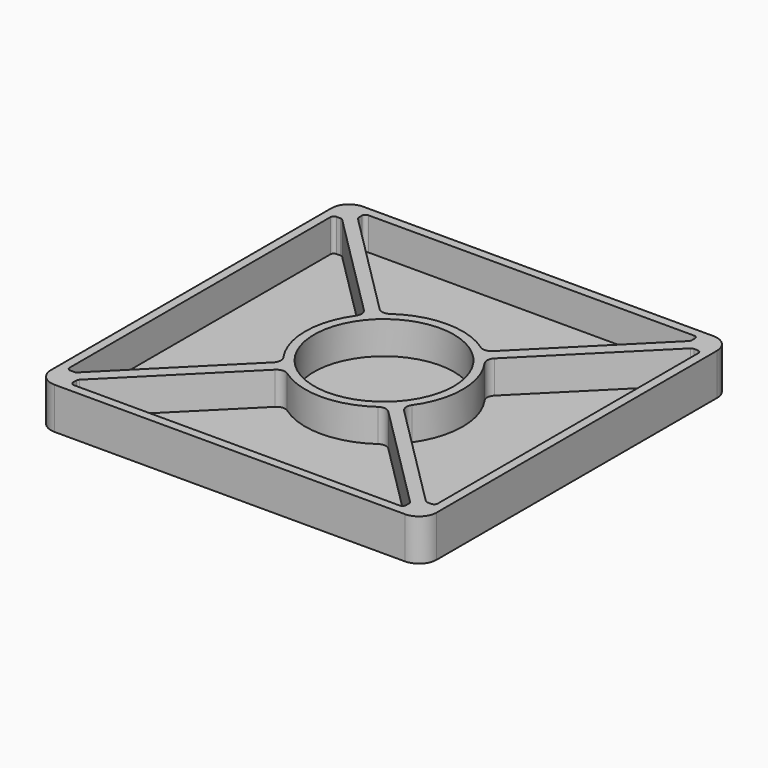
from build123d import *

# Parameters (mm, degrees)
F0_R     = 39.5
F1_DEPTH = 5
F2_DEPTH = 18.5


with BuildPart() as f1:
    # F0 (on Top) → F1 (new body)
    with BuildSketch(Plane.XY):
        with BuildLine():
            Line((99, 109), (-99, 109))
            ThreePointArc((-99, 109), (-106.071068, 106.071068), (-109, 99))
            Line((-109, 99), (-109, -99))
            ThreePointArc((-109, -99), (-106.071068, -106.071068), (-99, -109))
            Line((-99, -109), (99, -109))
            ThreePointArc((99, -109), (106.071068, -106.071068), (109, -99))
            Line((109, -99), (109, 99))
            ThreePointArc((109, 99), (106.071068, 106.071068), (99, 109))
        make_face()
        with BuildLine():
            Line((-60.861436, -104.000004), (-92.050256, -104.000004))
            ThreePointArc((-92.050256, -104.000004), (-93.46447, -103.414217), (-94.050256, -102.000004))
            Line((-94.050256, -102.000004), (-94.050256, -99.828431))
            ThreePointArc((-94.050256, -99.828431), (-93.898015, -99.063064), (-93.46447, -98.414217))
            Line((-93.46447, -98.414217), (-32.007006, -36.956753))
            ThreePointArc((-32.007006, -36.956753), (-28.902368, -35.510889), (-25.595565, -36.402157))
            ThreePointArc((-25.595565, -36.402157), (0, -44.5), (25.595565, -36.402157))
            ThreePointArc((25.595565, -36.402157), (28.902368, -35.510889), (32.007006, -36.956753))
            Line((32.007006, -36.956753), (93.46447, -98.414217))
            ThreePointArc((93.46447, -98.414217), (93.898015, -99.063064), (94.050256, -99.828431))
            Line((94.050256, -99.828431), (94.050256, -102.000004))
            ThreePointArc((94.050256, -102.000004), (93.46447, -103.414217), (92.050256, -104.000004))
            Line((92.050256, -104.000004), (60.861436, -104.000004))
            Line((60.861436, -104.000004), (45.861436, -104.000004))
            Line((45.861436, -104.000004), (-45.861436, -104.000004))
            Line((-45.861436, -104.000004), (-60.861436, -104.000004))
        make_face(mode=Mode.SUBTRACT)
        with BuildLine():
            Line((-104.000004, 60.861436), (-104.000004, 92.050256))
            ThreePointArc((-104.000004, 92.050256), (-103.414217, 93.46447), (-102.000004, 94.050256))
            Line((-102.000004, 94.050256), (-99.828431, 94.050256))
            ThreePointArc((-99.828431, 94.050256), (-99.063064, 93.898015), (-98.414217, 93.46447))
            Line((-98.414217, 93.46447), (-36.956753, 32.007006))
            ThreePointArc((-36.956753, 32.007006), (-35.510889, 28.902368), (-36.402157, 25.595565))
            ThreePointArc((-36.402157, 25.595565), (-44.5, 0), (-36.402157, -25.595565))
            ThreePointArc((-36.402157, -25.595565), (-35.510889, -28.902368), (-36.956753, -32.007006))
            Line((-36.956753, -32.007006), (-98.414217, -93.46447))
            ThreePointArc((-98.414217, -93.46447), (-99.063064, -93.898015), (-99.828431, -94.050256))
            Line((-99.828431, -94.050256), (-102.000004, -94.050256))
            ThreePointArc((-102.000004, -94.050256), (-103.414217, -93.46447), (-104.000004, -92.050256))
            Line((-104.000004, -92.050256), (-104.000004, -60.861436))
            Line((-104.000004, -60.861436), (-104.000004, -45.861436))
            Line((-104.000004, -45.861436), (-104.000004, 45.861436))
            Line((-104.000004, 45.861436), (-104.000004, 60.861436))
        make_face(mode=Mode.SUBTRACT)
        with BuildLine():
            ThreePointArc((-94.050256, 102.000004), (-93.46447, 103.414217), (-92.050256, 104.000004))
            Line((-92.050256, 104.000004), (-60.861436, 104.000004))
            Line((-60.861436, 104.000004), (-45.861436, 104.000004))
            Line((-45.861436, 104.000004), (45.861436, 104.000004))
            Line((45.861436, 104.000004), (60.861436, 104.000004))
            Line((60.861436, 104.000004), (92.050256, 104.000004))
            ThreePointArc((92.050256, 104.000004), (93.46447, 103.414217), (94.050256, 102.000004))
            Line((94.050256, 102.000004), (94.050256, 99.828431))
            ThreePointArc((94.050256, 99.828431), (93.898015, 99.063064), (93.46447, 98.414217))
            Line((93.46447, 98.414217), (32.007006, 36.956753))
            ThreePointArc((32.007006, 36.956753), (28.902368, 35.510889), (25.595565, 36.402157))
            ThreePointArc((25.595565, 36.402157), (0, 44.5), (-25.595565, 36.402157))
            ThreePointArc((-25.595565, 36.402157), (-28.902368, 35.510889), (-32.007006, 36.956753))
            Line((-32.007006, 36.956753), (-93.46447, 98.414217))
            ThreePointArc((-93.46447, 98.414217), (-93.898015, 99.063064), (-94.050256, 99.828431))
            Line((-94.050256, 99.828431), (-94.050256, 102.000004))
        make_face(mode=Mode.SUBTRACT)
        Circle(F0_R, mode=Mode.SUBTRACT)
        with BuildLine():
            ThreePointArc((102.000004, 94.050256), (103.414217, 93.46447), (104.000004, 92.050256))
            Line((104.000004, 92.050256), (104.000004, 60.861436))
            Line((104.000004, 60.861436), (104.000004, 45.861436))
            Line((104.000004, 45.861436), (104.000004, -45.861436))
            Line((104.000004, -45.861436), (104.000004, -60.861436))
            Line((104.000004, -60.861436), (104.000004, -92.050256))
            ThreePointArc((104.000004, -92.050256), (103.414217, -93.46447), (102.000004, -94.050256))
            Line((102.000004, -94.050256), (99.828431, -94.050256))
            ThreePointArc((99.828431, -94.050256), (99.063064, -93.898015), (98.414217, -93.46447))
            Line((98.414217, -93.46447), (36.956753, -32.007006))
            ThreePointArc((36.956753, -32.007006), (35.510889, -28.902368), (36.402157, -25.595565))
            ThreePointArc((36.402157, -25.595565), (44.5, 0), (36.402157, 25.595565))
            ThreePointArc((36.402157, 25.595565), (35.510889, 28.902368), (36.956753, 32.007006))
            Line((36.956753, 32.007006), (98.414217, 93.46447))
            ThreePointArc((98.414217, 93.46447), (99.063064, 93.898015), (99.828431, 94.050256))
            Line((99.828431, 94.050256), (102.000004, 94.050256))
        make_face(mode=Mode.SUBTRACT)
        with BuildLine():
            ThreePointArc((-102.000004, 94.050256), (-103.414217, 93.46447), (-104.000004, 92.050256))
            Line((-104.000004, 92.050256), (-104.000004, 60.861436))
            Line((-104.000004, 60.861436), (-104.000004, 45.861436))
            Line((-104.000004, 45.861436), (-104.000004, -45.861436))
            Line((-104.000004, -45.861436), (-104.000004, -60.861436))
            Line((-104.000004, -60.861436), (-104.000004, -92.050256))
            ThreePointArc((-104.000004, -92.050256), (-103.414217, -93.46447), (-102.000004, -94.050256))
            Line((-102.000004, -94.050256), (-99.828431, -94.050256))
            ThreePointArc((-99.828431, -94.050256), (-99.063064, -93.898015), (-98.414217, -93.46447))
            Line((-98.414217, -93.46447), (-36.956753, -32.007006))
            ThreePointArc((-36.956753, -32.007006), (-35.510889, -28.902368), (-36.402157, -25.595565))
            ThreePointArc((-36.402157, -25.595565), (-44.5, 0), (-36.402157, 25.595565))
            ThreePointArc((-36.402157, 25.595565), (-35.510889, 28.902368), (-36.956753, 32.007006))
            Line((-36.956753, 32.007006), (-98.414217, 93.46447))
            ThreePointArc((-98.414217, 93.46447), (-99.063064, 93.898015), (-99.828431, 94.050256))
            Line((-99.828431, 94.050256), (-102.000004, 94.050256))
        make_face()
        with BuildLine():
            Line((-60.861436, 104.000004), (-92.050256, 104.000004))
            ThreePointArc((-92.050256, 104.000004), (-93.46447, 103.414217), (-94.050256, 102.000004))
            Line((-94.050256, 102.000004), (-94.050256, 99.828431))
            ThreePointArc((-94.050256, 99.828431), (-93.898015, 99.063064), (-93.46447, 98.414217))
            Line((-93.46447, 98.414217), (-32.007006, 36.956753))
            ThreePointArc((-32.007006, 36.956753), (-28.902368, 35.510889), (-25.595565, 36.402157))
            ThreePointArc((-25.595565, 36.402157), (0, 44.5), (25.595565, 36.402157))
            ThreePointArc((25.595565, 36.402157), (28.902368, 35.510889), (32.007006, 36.956753))
            Line((32.007006, 36.956753), (93.46447, 98.414217))
            ThreePointArc((93.46447, 98.414217), (93.898015, 99.063064), (94.050256, 99.828431))
            Line((94.050256, 99.828431), (94.050256, 102.000004))
            ThreePointArc((94.050256, 102.000004), (93.46447, 103.414217), (92.050256, 104.000004))
            Line((92.050256, 104.000004), (60.861436, 104.000004))
            Line((60.861436, 104.000004), (45.861436, 104.000004))
            Line((45.861436, 104.000004), (-45.861436, 104.000004))
            Line((-45.861436, 104.000004), (-60.861436, 104.000004))
        make_face()
        Circle(F0_R)
        with BuildLine():
            Line((104.000004, 60.861436), (104.000004, 92.050256))
            ThreePointArc((104.000004, 92.050256), (103.414217, 93.46447), (102.000004, 94.050256))
            Line((102.000004, 94.050256), (99.828431, 94.050256))
            ThreePointArc((99.828431, 94.050256), (99.063064, 93.898015), (98.414217, 93.46447))
            Line((98.414217, 93.46447), (36.956753, 32.007006))
            ThreePointArc((36.956753, 32.007006), (35.510889, 28.902368), (36.402157, 25.595565))
            ThreePointArc((36.402157, 25.595565), (44.5, 0), (36.402157, -25.595565))
            ThreePointArc((36.402157, -25.595565), (35.510889, -28.902368), (36.956753, -32.007006))
            Line((36.956753, -32.007006), (98.414217, -93.46447))
            ThreePointArc((98.414217, -93.46447), (99.063064, -93.898015), (99.828431, -94.050256))
            Line((99.828431, -94.050256), (102.000004, -94.050256))
            ThreePointArc((102.000004, -94.050256), (103.414217, -93.46447), (104.000004, -92.050256))
            Line((104.000004, -92.050256), (104.000004, -60.861436))
            Line((104.000004, -60.861436), (104.000004, -45.861436))
            Line((104.000004, -45.861436), (104.000004, 45.861436))
            Line((104.000004, 45.861436), (104.000004, 60.861436))
        make_face()
        with BuildLine():
            ThreePointArc((-94.050256, -102.000004), (-93.46447, -103.414217), (-92.050256, -104.000004))
            Line((-92.050256, -104.000004), (-60.861436, -104.000004))
            Line((-60.861436, -104.000004), (-45.861436, -104.000004))
            Line((-45.861436, -104.000004), (45.861436, -104.000004))
            Line((45.861436, -104.000004), (60.861436, -104.000004))
            Line((60.861436, -104.000004), (92.050256, -104.000004))
            ThreePointArc((92.050256, -104.000004), (93.46447, -103.414217), (94.050256, -102.000004))
            Line((94.050256, -102.000004), (94.050256, -99.828431))
            ThreePointArc((94.050256, -99.828431), (93.898015, -99.063064), (93.46447, -98.414217))
            Line((93.46447, -98.414217), (32.007006, -36.956753))
            ThreePointArc((32.007006, -36.956753), (28.902368, -35.510889), (25.595565, -36.402157))
            ThreePointArc((25.595565, -36.402157), (0, -44.5), (-25.595565, -36.402157))
            ThreePointArc((-25.595565, -36.402157), (-28.902368, -35.510889), (-32.007006, -36.956753))
            Line((-32.007006, -36.956753), (-93.46447, -98.414217))
            ThreePointArc((-93.46447, -98.414217), (-93.898015, -99.063064), (-94.050256, -99.828431))
            Line((-94.050256, -99.828431), (-94.050256, -102.000004))
        make_face()
    extrude(amount=-F1_DEPTH)

    # F0 (on Top) → F2 (join)
    with BuildSketch(Plane.XY):
        with BuildLine():
            Line((99, 109), (-99, 109))
            ThreePointArc((-99, 109), (-106.071068, 106.071068), (-109, 99))
            Line((-109, 99), (-109, -99))
            ThreePointArc((-109, -99), (-106.071068, -106.071068), (-99, -109))
            Line((-99, -109), (99, -109))
            ThreePointArc((99, -109), (106.071068, -106.071068), (109, -99))
            Line((109, -99), (109, 99))
            ThreePointArc((109, 99), (106.071068, 106.071068), (99, 109))
        make_face()
        with BuildLine():
            Line((-60.861436, -104.000004), (-92.050256, -104.000004))
            ThreePointArc((-92.050256, -104.000004), (-93.46447, -103.414217), (-94.050256, -102.000004))
            Line((-94.050256, -102.000004), (-94.050256, -99.828431))
            ThreePointArc((-94.050256, -99.828431), (-93.898015, -99.063064), (-93.46447, -98.414217))
            Line((-93.46447, -98.414217), (-32.007006, -36.956753))
            ThreePointArc((-32.007006, -36.956753), (-28.902368, -35.510889), (-25.595565, -36.402157))
            ThreePointArc((-25.595565, -36.402157), (0, -44.5), (25.595565, -36.402157))
            ThreePointArc((25.595565, -36.402157), (28.902368, -35.510889), (32.007006, -36.956753))
            Line((32.007006, -36.956753), (93.46447, -98.414217))
            ThreePointArc((93.46447, -98.414217), (93.898015, -99.063064), (94.050256, -99.828431))
            Line((94.050256, -99.828431), (94.050256, -102.000004))
            ThreePointArc((94.050256, -102.000004), (93.46447, -103.414217), (92.050256, -104.000004))
            Line((92.050256, -104.000004), (60.861436, -104.000004))
            Line((60.861436, -104.000004), (45.861436, -104.000004))
            Line((45.861436, -104.000004), (-45.861436, -104.000004))
            Line((-45.861436, -104.000004), (-60.861436, -104.000004))
        make_face(mode=Mode.SUBTRACT)
        with BuildLine():
            Line((-104.000004, 60.861436), (-104.000004, 92.050256))
            ThreePointArc((-104.000004, 92.050256), (-103.414217, 93.46447), (-102.000004, 94.050256))
            Line((-102.000004, 94.050256), (-99.828431, 94.050256))
            ThreePointArc((-99.828431, 94.050256), (-99.063064, 93.898015), (-98.414217, 93.46447))
            Line((-98.414217, 93.46447), (-36.956753, 32.007006))
            ThreePointArc((-36.956753, 32.007006), (-35.510889, 28.902368), (-36.402157, 25.595565))
            ThreePointArc((-36.402157, 25.595565), (-44.5, 0), (-36.402157, -25.595565))
            ThreePointArc((-36.402157, -25.595565), (-35.510889, -28.902368), (-36.956753, -32.007006))
            Line((-36.956753, -32.007006), (-98.414217, -93.46447))
            ThreePointArc((-98.414217, -93.46447), (-99.063064, -93.898015), (-99.828431, -94.050256))
            Line((-99.828431, -94.050256), (-102.000004, -94.050256))
            ThreePointArc((-102.000004, -94.050256), (-103.414217, -93.46447), (-104.000004, -92.050256))
            Line((-104.000004, -92.050256), (-104.000004, -60.861436))
            Line((-104.000004, -60.861436), (-104.000004, -45.861436))
            Line((-104.000004, -45.861436), (-104.000004, 45.861436))
            Line((-104.000004, 45.861436), (-104.000004, 60.861436))
        make_face(mode=Mode.SUBTRACT)
        with BuildLine():
            ThreePointArc((-94.050256, 102.000004), (-93.46447, 103.414217), (-92.050256, 104.000004))
            Line((-92.050256, 104.000004), (-60.861436, 104.000004))
            Line((-60.861436, 104.000004), (-45.861436, 104.000004))
            Line((-45.861436, 104.000004), (45.861436, 104.000004))
            Line((45.861436, 104.000004), (60.861436, 104.000004))
            Line((60.861436, 104.000004), (92.050256, 104.000004))
            ThreePointArc((92.050256, 104.000004), (93.46447, 103.414217), (94.050256, 102.000004))
            Line((94.050256, 102.000004), (94.050256, 99.828431))
            ThreePointArc((94.050256, 99.828431), (93.898015, 99.063064), (93.46447, 98.414217))
            Line((93.46447, 98.414217), (32.007006, 36.956753))
            ThreePointArc((32.007006, 36.956753), (28.902368, 35.510889), (25.595565, 36.402157))
            ThreePointArc((25.595565, 36.402157), (0, 44.5), (-25.595565, 36.402157))
            ThreePointArc((-25.595565, 36.402157), (-28.902368, 35.510889), (-32.007006, 36.956753))
            Line((-32.007006, 36.956753), (-93.46447, 98.414217))
            ThreePointArc((-93.46447, 98.414217), (-93.898015, 99.063064), (-94.050256, 99.828431))
            Line((-94.050256, 99.828431), (-94.050256, 102.000004))
        make_face(mode=Mode.SUBTRACT)
        Circle(F0_R, mode=Mode.SUBTRACT)
        with BuildLine():
            ThreePointArc((102.000004, 94.050256), (103.414217, 93.46447), (104.000004, 92.050256))
            Line((104.000004, 92.050256), (104.000004, 60.861436))
            Line((104.000004, 60.861436), (104.000004, 45.861436))
            Line((104.000004, 45.861436), (104.000004, -45.861436))
            Line((104.000004, -45.861436), (104.000004, -60.861436))
            Line((104.000004, -60.861436), (104.000004, -92.050256))
            ThreePointArc((104.000004, -92.050256), (103.414217, -93.46447), (102.000004, -94.050256))
            Line((102.000004, -94.050256), (99.828431, -94.050256))
            ThreePointArc((99.828431, -94.050256), (99.063064, -93.898015), (98.414217, -93.46447))
            Line((98.414217, -93.46447), (36.956753, -32.007006))
            ThreePointArc((36.956753, -32.007006), (35.510889, -28.902368), (36.402157, -25.595565))
            ThreePointArc((36.402157, -25.595565), (44.5, 0), (36.402157, 25.595565))
            ThreePointArc((36.402157, 25.595565), (35.510889, 28.902368), (36.956753, 32.007006))
            Line((36.956753, 32.007006), (98.414217, 93.46447))
            ThreePointArc((98.414217, 93.46447), (99.063064, 93.898015), (99.828431, 94.050256))
            Line((99.828431, 94.050256), (102.000004, 94.050256))
        make_face(mode=Mode.SUBTRACT)
    extrude(amount=F2_DEPTH)


solid = f1.part
